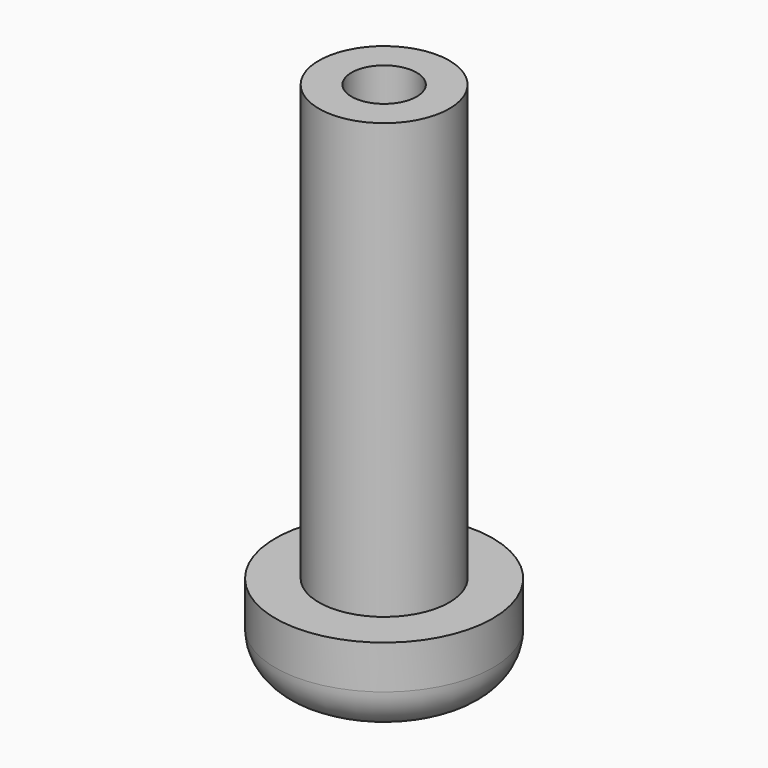
from build123d import *

# Parameters (mm, degrees)
SKETCH_R     = 2.5
PAD_DEPTH    = 2
FILLET_R     = 1
SKETCH001_R  = 1.5
PAD001_DEPTH = 10
SKETCH002_R  = 0.75
POCKET_DEPTH = 3


with BuildPart() as part:
    # Sketch → Pad (new body)
    with BuildSketch(Plane.XY):
        Circle(SKETCH_R)
    extrude(amount=PAD_DEPTH)

    # Fillet
    fillet_edges = [part.edges().sort_by_distance(p)[0] for p in [
        (-2.5, 0, 0),
    ]]
    fillet(fillet_edges, radius=FILLET_R)

    # Sketch001 (on DatumPlane) → Pad001 (join)
    with BuildSketch(Plane.XY.offset(2)):
        Circle(SKETCH001_R)
    extrude(amount=PAD001_DEPTH)

    # Sketch002 (on DatumPlane) → Pocket (cut)
    with BuildSketch(Plane.XY.offset(12)):
        Circle(SKETCH002_R)
    extrude(amount=-POCKET_DEPTH, mode=Mode.SUBTRACT)


solid = part.part
